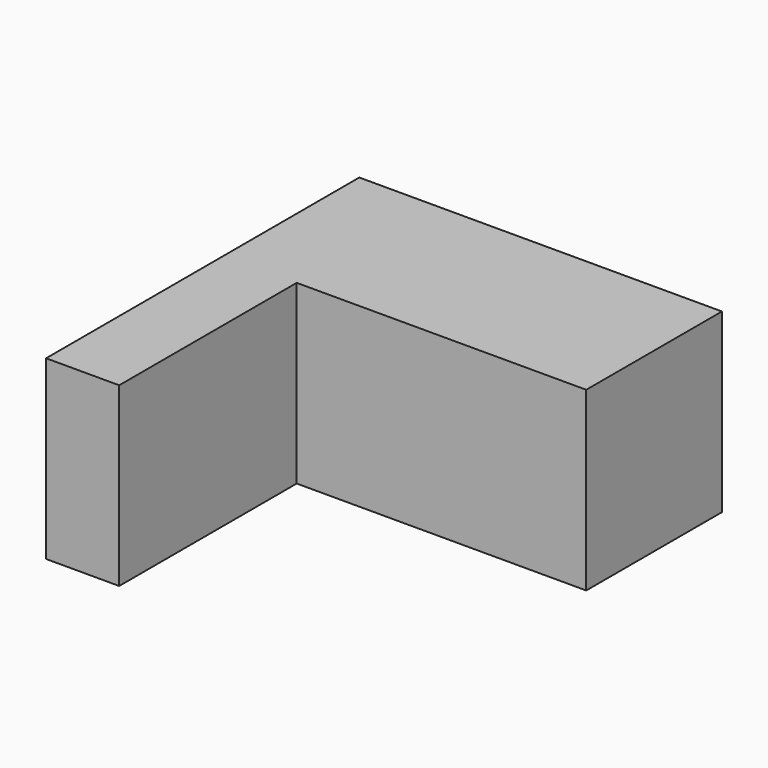
from build123d import *

# Parameters (mm, degrees)
F1_DEPTH = 27.315252


with BuildPart() as f1:
    # F0 (on Top) → F1 (new body)
    with BuildSketch(Plane.XY):
        Polygon((44.756193, 34.358084), (-11.301095, 34.358084), (-11.301095, -26.156299), (0, -26.156299), (0, -9.007037), (0, 8.142225), (44.756193, 8.142225), align=None)
    extrude(amount=-F1_DEPTH)


solid = f1.part
